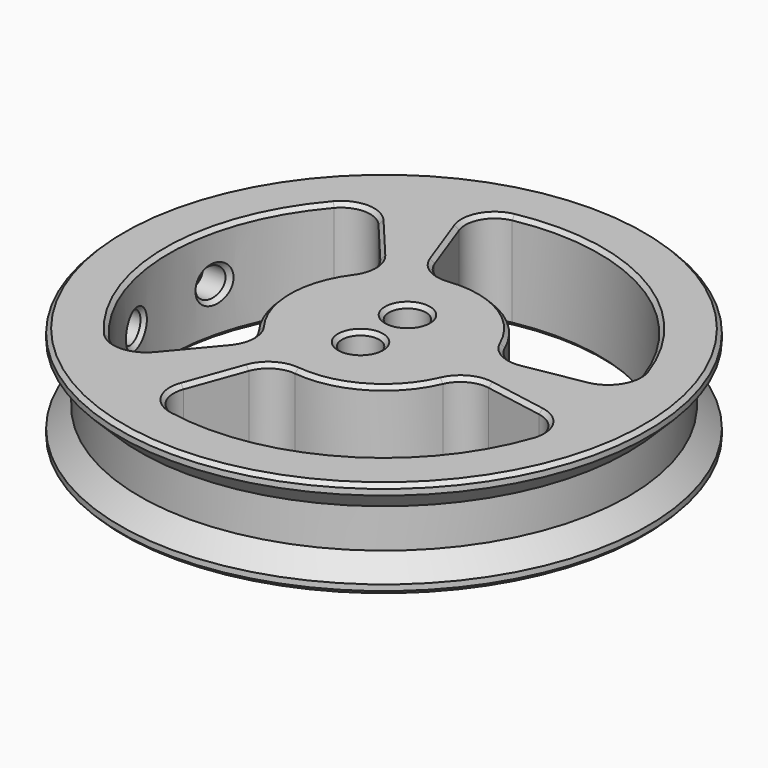
from build123d import *

# Parameters (mm, degrees)
CHAMFER003068012002066_SIZE      = 0.4
CHAMFER003068012002067_SIZE      = 1
POCKET033_DEPTH                  = 10.001
FILLET003002007_R                = 3
SKETCH049_R                      = 1.65
POCKET034_DEPTH                  = 16
SKETCH050_R                      = 1.9
POCKET035_DEPTH                  = 7
CHAMFER003068012002068_SIZE      = 0.4
SKETCH051_R                      = 1.5
POCKET036_DEPTH                  = 10
CHAMFER003068012002069_SIZE      = 0.4
BODY001001001002_PLACEMENT_ANGLE = 180


with BuildPart() as part:
    # Sketch022 (on DatumPlane) → Revolution (revolve)
    with BuildSketch(Plane.YZ):
        Polygon((0, 0), (-27, 0), (-27, 1), (-25, 3), (-25, 7), (-27, 9), (-27, 10), (-7, 10), (-7, 11), (-5.95, 11), (-5.95, 16.5), (0, 16.5), align=None)
    revolve(axis=Axis((0, 0, 0), (0, 0, 1)))

    # Chamfer003068012002066
    chamfer003068012002066_edges = [part.edges().sort_by_distance(p)[0] for p in [
        (0, 7, 11),
    ]]
    chamfer(chamfer003068012002066_edges, length=CHAMFER003068012002066_SIZE)

    # Chamfer003068012002067
    chamfer003068012002067_edges = [part.edges().sort_by_distance(p)[0] for p in [
        (0, 5.95, 16.5),
    ]]
    chamfer(chamfer003068012002067_edges, length=CHAMFER003068012002067_SIZE)

    # Sketch048 (on Face7 of Chamfer003068012002067) → Pocket033 (cut, through all)
    with BuildSketch(Plane(origin=(0, 0, 10), x_dir=(0, -1, 0), z_dir=(0, 0, 1))):
        with BuildLine():
            ThreePointArc((-9.396926, 3.420201), (-8.660254, -5), (-1.736482, -9.848078))
            Line((-1.736482, -9.848078), (-3.82026, -21.665771))
            ThreePointArc((-20.673238, 7.524443), (-19.052559, -11), (-3.82026, -21.665771))
            Line((-9.396926, 3.420201), (-20.673238, 7.524443))
        make_face()
        with BuildLine():
            ThreePointArc((3.82026, -21.665771), (19.052559, -11), (20.673238, 7.524443))
            Line((9.396926, 3.420201), (20.673238, 7.524443))
            ThreePointArc((1.736482, -9.848078), (8.660254, -5), (9.396926, 3.420201))
            Line((1.736482, -9.848078), (3.82026, -21.665771))
        make_face()
        with BuildLine():
            Line((-7.660444, 6.427876), (-16.852978, 14.141327))
            ThreePointArc((16.852978, 14.141327), (0, 22), (-16.852978, 14.141327))
            Line((7.660444, 6.427876), (16.852978, 14.141327))
            ThreePointArc((7.660444, 6.427876), (0, 10), (-7.660444, 6.427876))
        make_face()
    extrude(amount=-POCKET033_DEPTH, mode=Mode.SUBTRACT)

    # Fillet003002007
    fillet003002007_edges = [part.edges().sort_by_distance(p)[0] for p in [
        (-21.665771, 3.82026, 5),
        (-9.848078, 1.736482, 5),
        (3.420201, 9.396926, 5),
        (7.524443, 20.673238, 5),
        (14.141327, 16.852978, 5),
        (6.427876, 7.660444, 5),
        (6.427876, -7.660444, 5),
        (14.141327, -16.852978, 5),
        (-9.848078, -1.736482, 5),
        (3.420201, -9.396926, 5),
        (7.524443, -20.673238, 5),
        (-21.665771, -3.82026, 5),
    ]]
    fillet(fillet003002007_edges, radius=FILLET003002007_R)

    # Sketch049 (on Face28 of Fillet003002007) → Pocket034 (cut)
    with BuildSketch(Plane.YX):
        with Locations((-3, 0)):
            Circle(SKETCH049_R)
        with Locations((3, 0)):
            Circle(SKETCH049_R)
    extrude(amount=-POCKET034_DEPTH, mode=Mode.SUBTRACT)

    # Sketch050 (on Face28 of Pocket034) → Pocket035 (cut)
    with BuildSketch(Plane.YX):
        with Locations((-3, 0)):
            Circle(SKETCH050_R)
        with Locations((3, 0)):
            Circle(SKETCH050_R)
    extrude(amount=-POCKET035_DEPTH, mode=Mode.SUBTRACT)

    # Chamfer003068012002068
    chamfer003068012002068_edges = [part.edges().sort_by_distance(p)[0] for p in [
        (0, 27, 0),
        (-15.466787, -2.727212, 0),
        (-20.541699, -4.691648, 0),
        (-10.512405, -2.510202, 0),
        (-11, -19.052559, 0),
        (-5, -8.660254, 0),
        (6.207763, -20.135457, 0),
        (3.082304, -10.35911, 0),
        (5.371559, -14.758236, 0),
        (0, -4.9, 0),
        (0, 1.1, 0),
        (5.371559, 14.758236, 0),
        (6.207763, 20.135457, 0),
        (3.082304, 10.35911, 0),
        (-11, 19.052559, 0),
        (-5, 8.660254, 0),
        (-20.541699, 4.691648, 0),
        (-10.512405, 2.510202, 0),
        (-15.466787, 2.727212, 0),
        (10, 0, 0),
        (7.430101, -7.848909, 0),
        (7.430101, 7.848909, 0),
        (10.095228, -12.031024, 0),
        (10.095228, 12.031024, 0),
        (14.333936, -15.443809, 0),
        (14.333936, 15.443809, 0),
        (22, 0, 0),
        (5.371559, 14.758236, 10),
        (3.082304, 10.35911, 10),
        (6.207763, 20.135457, 10),
        (-5, 8.660254, 10),
        (-11, 19.052559, 10),
        (-10.512405, 2.510202, 10),
        (-20.541699, 4.691648, 10),
        (-15.466787, 2.727212, 10),
        (0, 27, 10),
        (0, 7, 10),
        (-15.466787, -2.727212, 10),
        (-10.512405, -2.510202, 10),
        (-20.541699, -4.691648, 10),
        (-5, -8.660254, 10),
        (-11, -19.052559, 10),
        (3.082304, -10.35911, 10),
        (6.207763, -20.135457, 10),
        (5.371559, -14.758236, 10),
        (10.095228, -12.031024, 10),
        (7.430101, -7.848909, 10),
        (14.333936, -15.443809, 10),
        (10, 0, 10),
        (22, 0, 10),
        (7.430101, 7.848909, 10),
        (14.333936, 15.443809, 10),
        (10.095228, 12.031024, 10),
    ]]
    chamfer(chamfer003068012002068_edges, length=CHAMFER003068012002068_SIZE)

    # Sketch051 (on DatumPlane) → Pocket036 (cut)
    with BuildSketch(Plane.YZ.offset(30)):
        with Locations((-5, 5)):
            Circle(SKETCH051_R)
        with Locations((5, 5)):
            Circle(SKETCH051_R)
    extrude(amount=-POCKET036_DEPTH, mode=Mode.SUBTRACT)

    # Chamfer003068012002069
    chamfer003068012002069_edges = [part.edges().sort_by_distance(p)[0] for p in [
        (24.753788, 3.5, 5),
        (21.719807, 3.5, 5),
        (24.140215, -6.5, 5),
        (21.01785, -6.5, 5),
    ]]
    chamfer(chamfer003068012002069_edges, length=CHAMFER003068012002069_SIZE)


with BuildPart() as part_1:
    # Body001001001002 placement: moved
    add(part.part.moved(Location((0, 0, -10.5))).rotate(Axis((0, 0, -10.5), (0, 1, 0)), BODY001001001002_PLACEMENT_ANGLE))


solid = part_1.part
